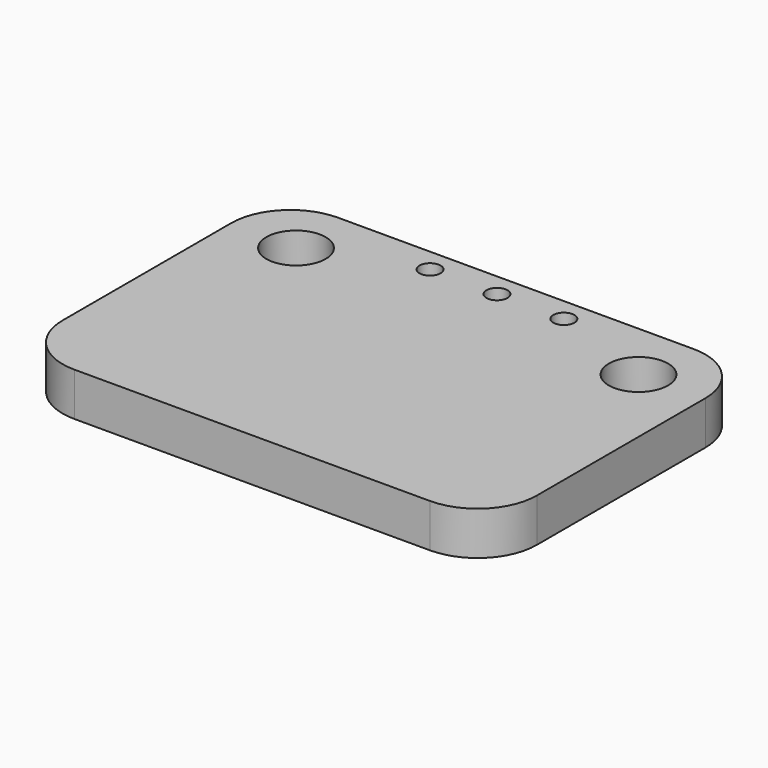
from build123d import *

# Parameters (mm, degrees)
PAD012_DEPTH    = 1.65
SKETCH037_R     = 1.125
POCKET011_DEPTH = 1.651
SKETCH038_R     = 0.4
POCKET001_DEPTH = 1.651


with BuildPart() as part:
    # Sketch036 → Pad012 (new body)
    with BuildSketch(Plane.XY):
        with BuildLine():
            Line((-6.75, 12.5), (6.75, 12.5))
            ThreePointArc((9, 10.25), (8.34099, 11.84099), (6.75, 12.5))
            Line((9, 10.25), (9, 2.25))
            ThreePointArc((6.75, 0), (8.34099, 0.65901), (9, 2.25))
            Line((6.75, 0), (-6.75, 0))
            ThreePointArc((-9, 2.25), (-8.34099, 0.65901), (-6.75, 0))
            Line((-9, 2.25), (-9, 10.25))
            ThreePointArc((-6.75, 12.5), (-8.34099, 11.84099), (-9, 10.25))
        make_face()
    extrude(amount=-PAD012_DEPTH)

    # Sketch037 → Pocket011 (cut, through all)
    with BuildSketch(Plane.XY):
        with Locations((-6.5, 10.2)):
            Circle(SKETCH037_R)
        with Locations((6.5, 10.2)):
            Circle(SKETCH037_R)
    extrude(amount=-POCKET011_DEPTH, mode=Mode.SUBTRACT)

    # Sketch038 → Pocket001 (cut, through all)
    with BuildSketch(Plane.XY):
        with Locations((0, 11.61)):
            Circle(SKETCH038_R)
        with Locations((2.54, 11.61)):
            Circle(SKETCH038_R)
        with Locations((-2.54, 11.61)):
            Circle(SKETCH038_R)
    extrude(amount=-POCKET001_DEPTH, mode=Mode.SUBTRACT)


solid = part.part
